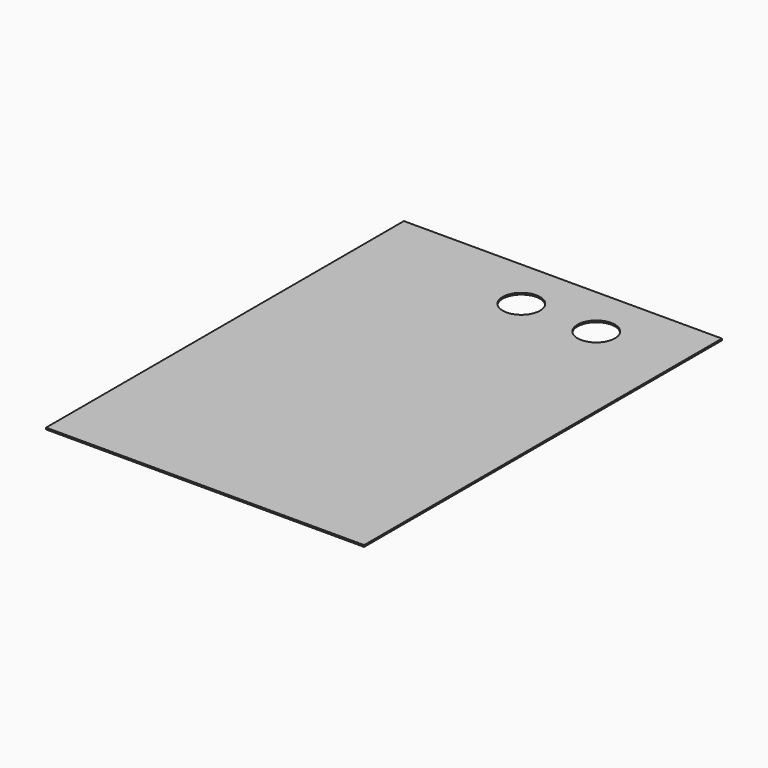
from build123d import *

# Parameters (mm, degrees)
F1_DEPTH = 1.5875


with BuildPart() as f1:
    # F0 (on Top) → F1 (new body)
    with BuildSketch(Plane.XY):
        with BuildLine():
            Line((0, 214.3125), (-152.4, 214.3125))
            Line((-152.4, 214.3125), (-152.4, 114.7967853308))
            Line((-152.4, 114.7967853308), (0, 114.7967853308))
            Line((0, 114.7967853308), (0, 146.6732910332))
            ThreePointArc((0, 146.6732910332), (-17.8813516322, 164.5546426654), (0, 182.4359942976))
            Line((0, 182.4359942976), (0, 214.3125))
        make_face()
        with BuildLine():
            Line((71.8133151531, 214.3125), (0, 214.3125))
            Line((0, 214.3125), (0, 182.4359942976))
            ThreePointArc((0, 182.4359942976), (12.6440249959, 177.1986676613), (17.8813516322, 164.5546426654))
            ThreePointArc((17.8813516322, 164.5546426654), (12.6440249959, 151.9106176695), (0, 146.6732910332))
            Line((0, 146.6732910332), (0, 114.7967853308))
            Line((0, 114.7967853308), (71.8133151531, 114.7967853308))
            Line((71.8133151531, 114.7967853308), (71.8133151531, 146.6732910332))
            ThreePointArc((71.8133151531, 146.6732910332), (53.9319635209, 164.5546426654), (71.8133151531, 182.4359942976))
            Line((71.8133151531, 182.4359942976), (71.8133151531, 214.3125))
        make_face()
        with BuildLine():
            Line((152.4, 214.3125), (71.8133151531, 214.3125))
            Line((71.8133151531, 214.3125), (71.8133151531, 182.4359942976))
            ThreePointArc((71.8133151531, 182.4359942976), (84.457340149, 177.1986676613), (89.6946667853, 164.5546426654))
            ThreePointArc((89.6946667853, 164.5546426654), (84.457340149, 151.9106176695), (71.8133151531, 146.6732910332))
            Line((71.8133151531, 146.6732910332), (71.8133151531, 114.7967853308))
            Line((71.8133151531, 114.7967853308), (152.4, 114.7967853308))
            Line((152.4, 114.7967853308), (152.4, 214.3125))
        make_face()
        with BuildLine():
            Line((0, 214.3125), (-152.4, 214.3125))
            Line((-152.4, 214.3125), (-152.4, 114.7967853308))
            Line((-152.4, 114.7967853308), (0, 114.7967853308))
            Line((0, 114.7967853308), (0, 146.6732910332))
            ThreePointArc((0, 146.6732910332), (-17.8813516322, 164.5546426654), (0, 182.4359942976))
            Line((0, 182.4359942976), (0, 214.3125))
        make_face()
        with BuildLine():
            Line((71.8133151531, 214.3125), (0, 214.3125))
            Line((0, 214.3125), (0, 182.4359942976))
            ThreePointArc((0, 182.4359942976), (12.6440249959, 177.1986676613), (17.8813516322, 164.5546426654))
            ThreePointArc((17.8813516322, 164.5546426654), (12.6440249959, 151.9106176695), (0, 146.6732910332))
            Line((0, 146.6732910332), (0, 114.7967853308))
            Line((0, 114.7967853308), (71.8133151531, 114.7967853308))
            Line((71.8133151531, 114.7967853308), (71.8133151531, 146.6732910332))
            ThreePointArc((71.8133151531, 146.6732910332), (53.9319635209, 164.5546426654), (71.8133151531, 182.4359942976))
            Line((71.8133151531, 182.4359942976), (71.8133151531, 214.3125))
        make_face()
        Polygon((0, 114.7967853308), (-152.4, 114.7967853308), (-152.4, -214.3125), (152.4, -214.3125), (152.4, 114.7967853308), (71.8133151531, 114.7967853308), align=None)
        with BuildLine():
            Line((152.4, 214.3125), (71.8133151531, 214.3125))
            Line((71.8133151531, 214.3125), (71.8133151531, 182.4359942976))
            ThreePointArc((71.8133151531, 182.4359942976), (84.457340149, 177.1986676613), (89.6946667853, 164.5546426654))
            ThreePointArc((89.6946667853, 164.5546426654), (84.457340149, 151.9106176695), (71.8133151531, 146.6732910332))
            Line((71.8133151531, 146.6732910332), (71.8133151531, 114.7967853308))
            Line((71.8133151531, 114.7967853308), (152.4, 114.7967853308))
            Line((152.4, 114.7967853308), (152.4, 214.3125))
        make_face()
    extrude(amount=F1_DEPTH)


solid = f1.part
